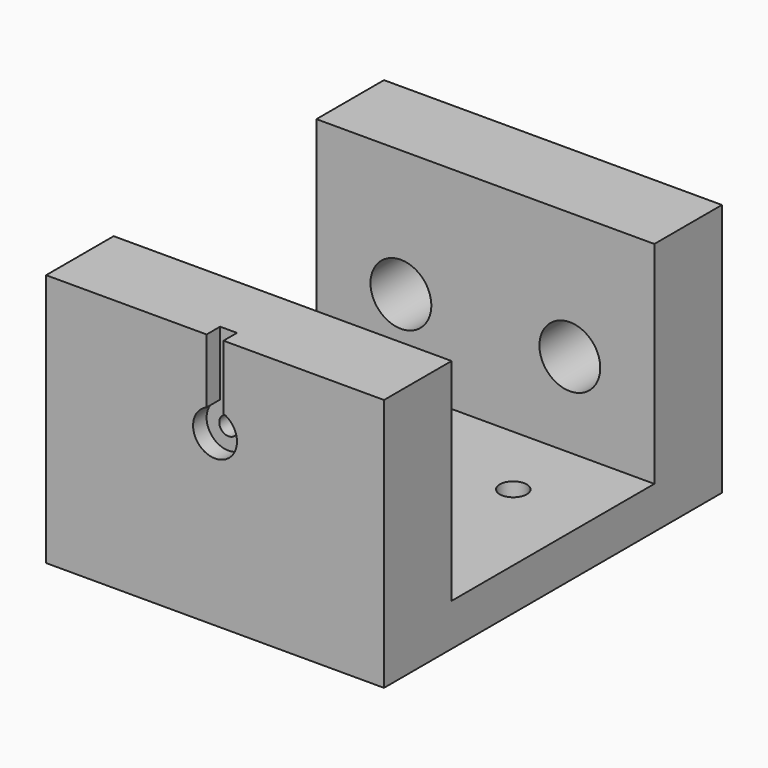
from build123d import *

# Parameters (mm, degrees)
F1_DEPTH = 20
F2_R     = 1.6
F3_DEPTH = 25
F4_R     = 1.1
F5_DEPTH = 25
F6_DEPTH = 2
F7_R     = 3.6
F8_DEPTH = 25
F7_R_2   = 3.1
F9_DEPTH = 5


with BuildPart() as f1:
    # F0 (on Right) → F1 (new body, symmetric)
    with BuildSketch(Plane.YZ):
        Polygon((-25, -15), (25, -15), (25, 15), (15, 15), (15, -10), (-15, -10), (-15, 15), (-25, 15), align=None)
    extrude(amount=F1_DEPTH, both=True)

    # F2 (on face) → F3 (cut)
    with BuildSketch(Plane(origin=(0, 0, -15), x_dir=(1, 0, 0), z_dir=(0, 0, -1))):
        with Locations((10.5, 6)):
            Circle(F2_R)
        with Locations((10.5, -6)):
            Circle(F2_R)
        with Locations((-10.5, 6)):
            Circle(F2_R)
        with Locations((-10.5, -6)):
            Circle(F2_R)
    extrude(amount=-F3_DEPTH, mode=Mode.SUBTRACT)

    # F4 (on face) → F5 (cut)
    with BuildSketch(Plane.XZ.offset(25)):
        with Locations((0, 5)):
            Circle(F4_R)
    extrude(amount=-F5_DEPTH, mode=Mode.SUBTRACT)

    # F4 (on face) → F6 (cut)
    with BuildSketch(Plane.XZ.offset(25)):
        with BuildLine():
            Line((-1, 15), (-1, 7.4))
            ThreePointArc((-1, 7.4), (0, 2.4), (1, 7.4))
            Line((1, 7.4), (1, 15))
            Line((1, 15), (-1, 15))
        make_face()
        with Locations((0, 5)):
            Circle(F4_R, mode=Mode.SUBTRACT)
    extrude(amount=-F6_DEPTH, mode=Mode.SUBTRACT)

    # F7 (on face) → F8 (cut)
    with BuildSketch(Plane(origin=(0, 25, 0), x_dir=(-1, 0, 0), z_dir=(0, 1, 0))):
        with Locations((-10, 0)):
            Circle(F7_R)
        with Locations((10, 0)):
            Circle(F7_R)
    extrude(amount=-F8_DEPTH, mode=Mode.SUBTRACT)

    # F7 (on face) → F9 (cut)
    with BuildSketch(Plane(origin=(0, 25, 0), x_dir=(-1, 0, 0), z_dir=(0, 1, 0))):
        Circle(F7_R_2)
    extrude(amount=-F9_DEPTH, mode=Mode.SUBTRACT)


solid = f1.part
